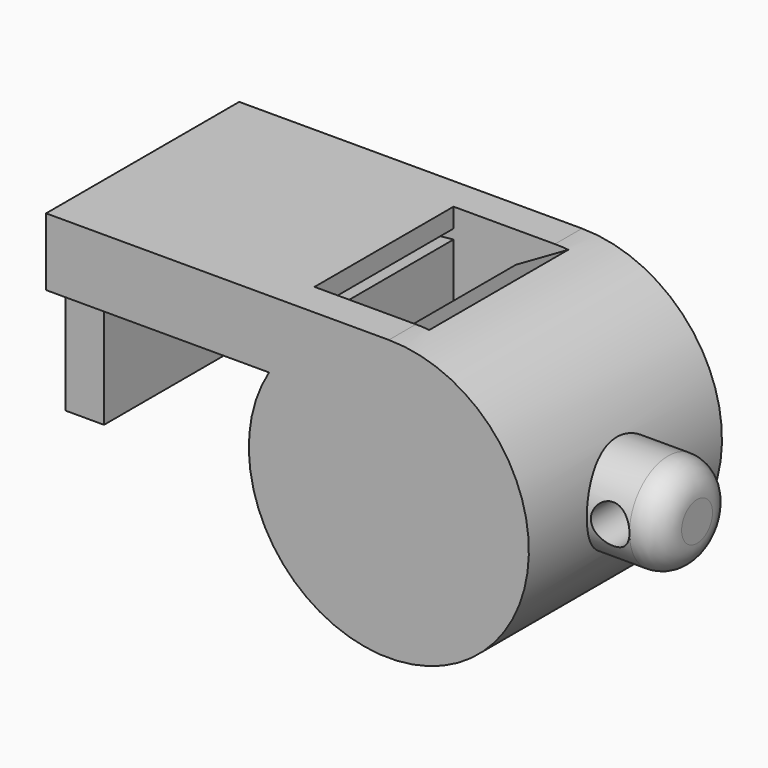
from build123d import *

# Parameters (mm, degrees)
F1_DEPTH  = 12.5
F3_DEPTH  = 9
F4_W      = 10
F4_H      = 5
F6_R      = 3
F7_R      = 2
F8_DEPTH  = 5
F9_W      = 4
F9_H      = 20
F10_DEPTH = 12
F11_DEPTH = 0.7


with BuildPart() as f1:
    # F0 (on Front) → F1 (new body, symmetric)
    with BuildSketch(Plane.XZ):
        with BuildLine():
            Line((-35.5, 7.5), (-12.409673646, 7.5))
            ThreePointArc((-12.409673646, 7.5), (7.1239034244, -12.6293309403), (0, 14.5))
            Line((0, 14.5), (-35.5, 14.5))
            Line((-35.5, 14.5), (-35.5, 7.5))
        make_face()
    extrude(amount=F1_DEPTH, both=True)

    # F2 (on Front) → F3 (cut, symmetric)
    with BuildSketch(Plane.XZ):
        with BuildLine():
            Line((-10.5, 11.5), (-10.5, 5.8094750193))
            ThreePointArc((-10.5, 5.8094750193), (7.7746445838, -9.1408370292), (-4.0490846521, 11.2962344823))
            Line((-4.0490846521, 11.2962344823), (1.5, 14.5))
            Line((1.5, 14.5), (-10.5, 14.5))
            Line((-10.5, 14.5), (-10.5, 12.5))
            Line((-10.5, 12.5), (-35.5, 12.5))
            Line((-35.5, 12.5), (-35.5, 9))
            Line((-35.5, 9), (-10.5, 11.5))
        make_face()
    extrude(amount=F3_DEPTH, both=True, mode=Mode.SUBTRACT)

    # F4 (on Front) → F5 (revolve)
    with BuildSketch(Plane.XZ):
        with Locations((16.9203263894, 2.5)):
            Rectangle(F4_W, F4_H)
    revolve(axis=Axis((16.9203263894, 0, 0), (1, 0, 0)))

    # F6
    f6_edges = [f1.edges().sort_by_distance(p)[0] for p in [
        (21.920326, 0, -5),
    ]]
    fillet(f6_edges, radius=F6_R)

    # F7 (on Front) → F8 (cut, symmetric)
    with BuildSketch(Plane.XZ):
        with Locations((16.9203263894, 0)):
            Circle(F7_R)
    extrude(amount=F8_DEPTH, both=True, mode=Mode.SUBTRACT)

    # F9 (on face) → F10 (join)
    with BuildSketch(Plane(origin=(0, 0, 7.5), x_dir=(1, 0, 0), z_dir=(0, 0, -1))):
        with Locations((-33.5, 0)):
            Rectangle(F9_W, F9_H)
    extrude(amount=F10_DEPTH)

    # F9 (on face) → F11 (join)
    with BuildSketch(Plane(origin=(0, 0, 7.5), x_dir=(1, 0, 0), z_dir=(0, 0, -1))):
        with Locations((-33.5, 0)):
            Rectangle(F9_W, F9_H)
    extrude(amount=F11_DEPTH)


solid = f1.part
